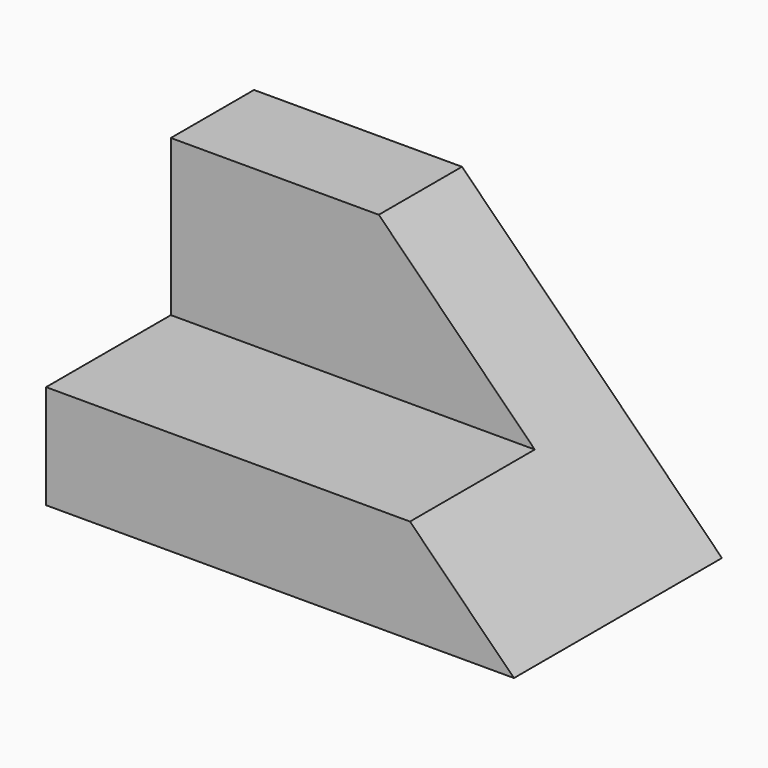
from build123d import *

# Parameters (mm, degrees)
F0_W     = 57.15
F0_H     = 12.7
F1_DEPTH = 31.75
F2_W     = 57.15
F2_H     = 19.05
F3_DEPTH = 12.7
F5_DEPTH = 31.751


with BuildPart() as f1:
    # F0 (on Front) → F1 (new body)
    with BuildSketch(Plane.XZ):
        with Locations((-54.480906, 6.35)):
            Rectangle(F0_W, F0_H)
    extrude(amount=F1_DEPTH)

    # F2 (on face) → F3 (join)
    with BuildSketch(Plane(origin=(0, 0, 0), x_dir=(-1, 0, 0), z_dir=(0, 1, 0))):
        with Locations((54.480906, 22.225)):
            Rectangle(F2_W, F2_H)
    extrude(amount=-F3_DEPTH)

    # F4 (on face) → F5 (cut, through all)
    with BuildSketch(Plane.XZ.offset(31.75)):
        Polygon((-57.655906, 31.75), (-25.905906, 0), (-25.905906, 31.75), align=None)
    extrude(amount=-F5_DEPTH, mode=Mode.SUBTRACT)


solid = f1.part
